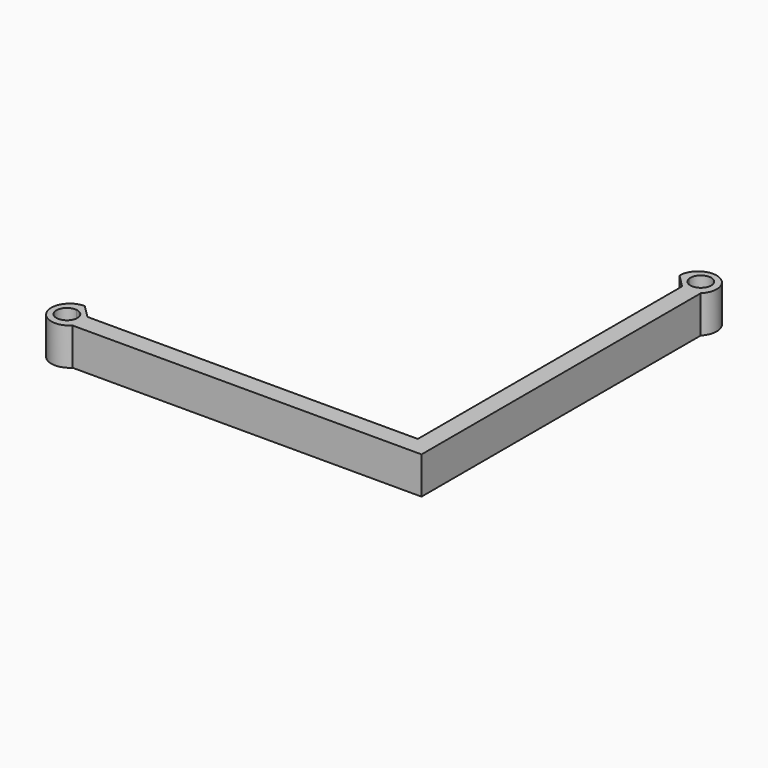
from build123d import *

# Parameters (mm, degrees)
F0_W     = 4
F0_H     = 69
F1_DEPTH = 8


with BuildPart() as f1:
    # F0 (on Top) → F1 (new body)
    with BuildSketch(Plane.XY):
        with BuildLine():
            Line((-35.5, -39.5), (-35.5, -35.5))
            Line((-35.5, -35.5), (-38.328427, -32.671573))
            Line((-38.328427, -32.671573), (-38.556517, -34.638391))
            ThreePointArc((-38.556517, -34.638391), (-37.135579, -35.376864), (-36.565711, -36.873412))
            ThreePointArc((-36.565711, -36.873412), (-36.690767, -37.613084), (-37.052035, -38.270533))
            Line((-37.052035, -38.270533), (-35.5, -39.5))
        make_face()
        with BuildLine():
            ThreePointArc((-38.328427, -32.671573), (-42.023945, -38.202307), (-35.5, -39.5))
            Line((-35.5, -39.5), (-37.052035, -38.270533))
            ThreePointArc((-37.052035, -38.270533), (-40.89444, -37.73445), (-38.556517, -34.638391))
            Line((-38.556517, -34.638391), (-38.328427, -32.671573))
        make_face()
        Polygon((35.5, -38.25), (35.5, -35.5), (33.5, -35.5), (-35.5, -35.5), (-35.5, -39.5), (35.5, -39.5), align=None)
        Polygon((38.25, -35.5), (35.5, -35.5), (35.5, -38.25), (35.5, -39.5), (39.5, -39.5), (39.5, -35.5), align=None)
        Polygon((35.5, -33.5), (35.5, -35.5), (38.25, -35.5), (39.5, -35.5), (39.5, -33.5), align=None)
        with Locations((37.5, 1)):
            Rectangle(F0_W, F0_H)
        with BuildLine():
            Line((32.671573, 38.328427), (35.5, 35.5))
            Line((35.5, 35.5), (39.5, 35.5))
            Line((39.5, 35.5), (38.270533, 37.052035))
            ThreePointArc((38.270533, 37.052035), (36.012375, 36.736982), (34.638391, 38.556517))
            Line((34.638391, 38.556517), (32.671573, 38.328427))
        make_face()
        with BuildLine():
            Line((38.270533, 37.052035), (39.5, 35.5))
            ThreePointArc((39.5, 35.5), (38.202307, 42.023945), (32.671573, 38.328427))
            Line((32.671573, 38.328427), (34.638391, 38.556517))
            ThreePointArc((34.638391, 38.556517), (36.743599, 41.061963), (39.123412, 38.815711))
            ThreePointArc((39.123412, 38.815711), (38.899001, 37.836176), (38.270533, 37.052035))
        make_face()
    extrude(amount=F1_DEPTH)


solid = f1.part
